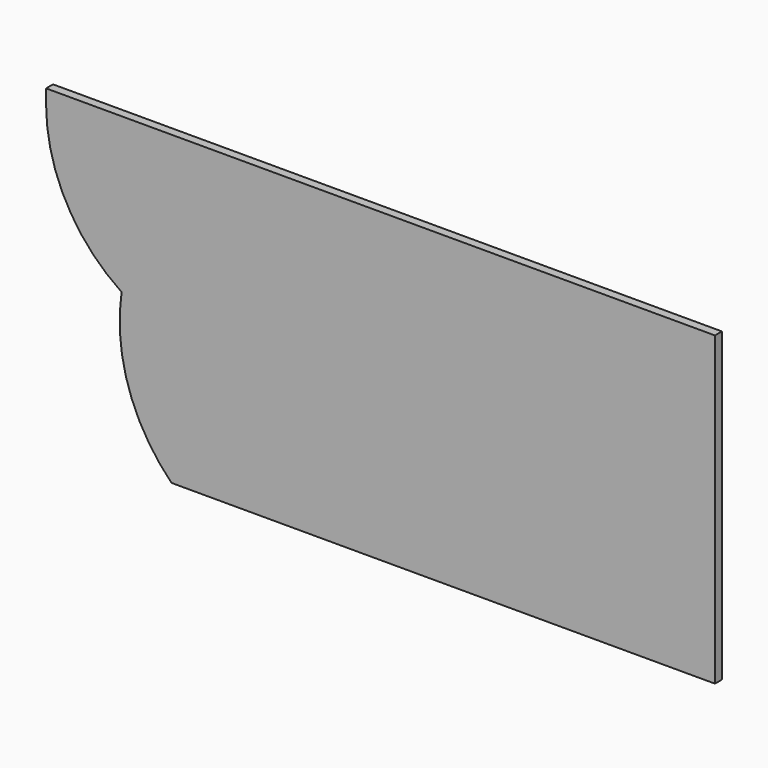
from build123d import *

# Parameters (mm, degrees)
F1_DEPTH = 15.875


with BuildPart() as f1:
    # F0 (on Front) → F1 (new body)
    with BuildSketch(Plane.XZ):
        with BuildLine():
            Line((1150.660626, -55.057509), (-68.539374, -55.057509))
            Line((-68.539374, -55.057509), (-68.539374, -80.457509))
            ThreePointArc((-68.539374, -80.457509), (-31.956463, -226.092789), (69.10691, -337.151958))
            ThreePointArc((69.10691, -337.151958), (81.782103, -486.286712), (160.060626, -613.857509))
            Line((160.060626, -613.857509), (1150.660626, -613.857509))
            Line((1150.660626, -613.857509), (1150.660626, -55.057509))
        make_face()
    extrude(amount=F1_DEPTH)


solid = f1.part
